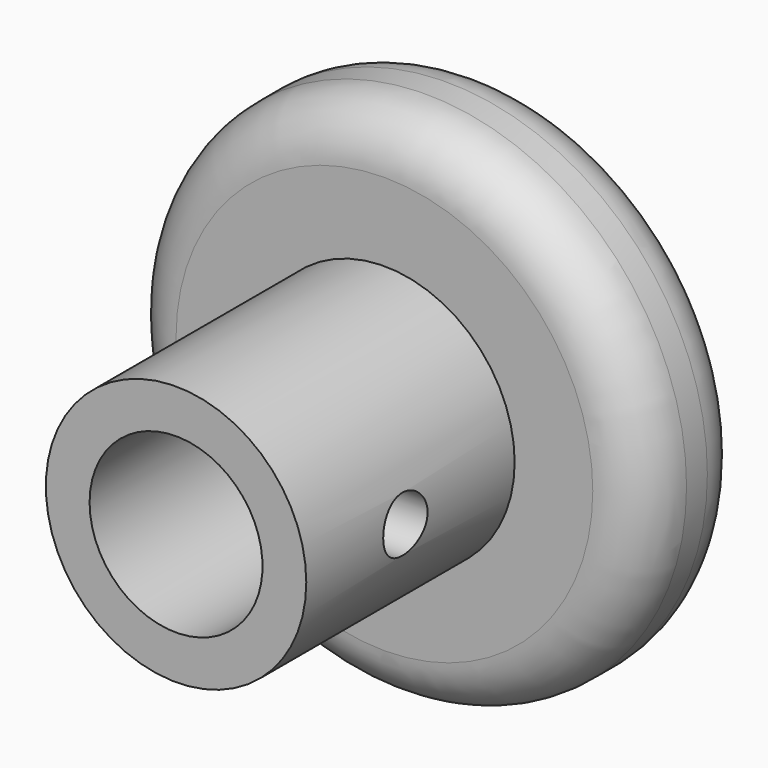
from build123d import *

# Parameters (mm, degrees)
F0_R     = 6.35
F1_DEPTH = 19.05
F0_R_2   = 12.7
F2_DEPTH = 6.35
F4_D     = 8.4328
F4_DEPTH = 13.335
F4_TIP   = 2.5334687141
F6_R     = 2.54
F7_D     = 2.7051
F7_DEPTH = 7.62
F7_TIP   = 0.8126940303


with BuildPart() as f1:
    # F0 (on Front) → F1 (new body)
    with BuildSketch(Plane.XZ):
        Circle(F0_R)
    extrude(amount=F1_DEPTH)

    # F0 (on Front) → F2 (join)
    with BuildSketch(Plane.XZ):
        Circle(F0_R_2)
        Circle(F0_R, mode=Mode.SUBTRACT)
    extrude(amount=F2_DEPTH)

    # F4
    with Locations(Plane.XZ.offset(19.05)):
        with Locations((0, 0)):
            Hole(F4_D / 2, depth=F4_DEPTH)
            with Locations((0, 0, -(F4_DEPTH + F4_TIP / 2))):  # 118° drill point
                Cone(0, F4_D / 2, F4_TIP, mode=Mode.SUBTRACT)

    # F6
    f6_edges = [f1.edges().sort_by_distance(p)[0] for p in [
        (-12.7, -6.35, 0),
        (-12.7, 0, 0),
    ]]
    fillet(f6_edges, radius=F6_R)

    # F7 (one way)
    with BuildSketch(Plane(origin=(0, 0, 0), x_dir=(0, 1, 0), z_dir=(-1, 0, 0))):
        with Locations((-13.0086187273, 0)):
            Circle(F7_D / 2)
    extrude(amount=-F7_DEPTH, mode=Mode.SUBTRACT)
    with Locations(Plane(origin=(0, 0, 0), x_dir=(0, 1, 0), z_dir=(-1, 0, 0))):
        with Locations((-13.0086187273, 0)):
            with Locations((0, 0, -(F7_DEPTH + F7_TIP / 2))):  # 118° drill point
                Cone(0, F7_D / 2, F7_TIP, mode=Mode.SUBTRACT)


solid = f1.part
